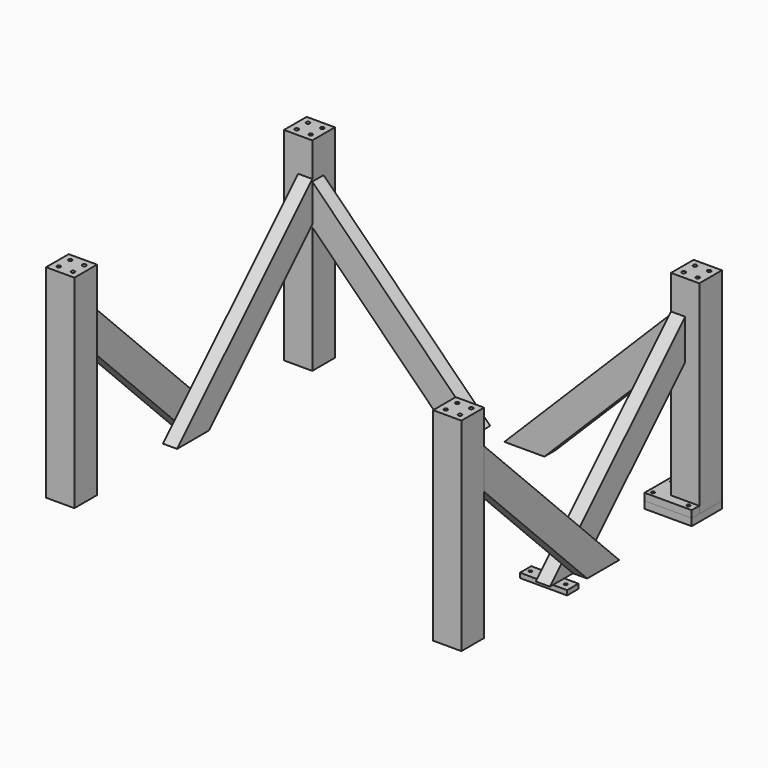
from build123d import *

# Parameters (mm, degrees)
F2_W      = 100
F2_H      = 80
F2_R      = 3.5
F2_R_2    = 4.5
F3_DEPTH  = 15
F4_R      = 7
F5_DEPTH  = 9
F11_DEPTH = 15
F12_W     = 100
F12_H     = 30
F12_R     = 3.25
F12_R_2   = 2.5
F13_DEPTH = 10
F16_DEPTH = 15
F19_DEPTH = 15
F1_W      = 60
F1_H      = 60
F1_R      = 4
F24_DEPTH = 430


with BuildPart() as f3:
    # F2 (on Top) → F3 (new body)
    with BuildSketch(Plane.XY):
        with Locations((40, 55)):
            Rectangle(F2_W, F2_H)
        with Locations((0, 25)):
            Circle(F2_R, mode=Mode.SUBTRACT)
        with Locations((75, 25)):
            Circle(F2_R, mode=Mode.SUBTRACT)
        with Locations((45, 50)):
            Circle(F2_R_2, mode=Mode.SUBTRACT)
        with Locations((75, 50)):
            Circle(F2_R_2, mode=Mode.SUBTRACT)
        with Locations((0, 75)):
            Circle(F2_R, mode=Mode.SUBTRACT)
        with Locations((45, 80)):
            Circle(F2_R_2, mode=Mode.SUBTRACT)
        with Locations((75, 80)):
            Circle(F2_R_2, mode=Mode.SUBTRACT)
    extrude(amount=F3_DEPTH)

    # F4 (on face) → F5 (cut)
    with BuildSketch(Plane(origin=(0, 0, 0), x_dir=(1, 0, 0), z_dir=(0, 0, -1))):
        with Locations((45, -50)):
            Circle(F4_R)
        with Locations((75, -50)):
            Circle(F4_R)
        with Locations((75, -80)):
            Circle(F4_R)
        with Locations((45, -80)):
            Circle(F4_R)
    extrude(amount=-F5_DEPTH, mode=Mode.SUBTRACT)


with BuildPart() as f6_1:
    # F6: copy of F3
    add(f3.part.moved(Location((0, 0, 15))))


with BuildPart() as f8_1:
    # F8: instance of F3
    add(f3.part.mirror(Plane.XY))


with BuildPart() as f11:
    # F10 (on plane+point) → F11 (new body, symmetric)
    with BuildSketch(Plane.YZ.offset(45)):
        Polygon((-238.1471862576, 0), (35, 273.1471862576), (35, 358), (-323, 0), align=None)
    extrude(amount=F11_DEPTH, both=True)


with BuildPart() as f13:
    # F12 (on face) → F13 (new body)
    with BuildSketch(Plane(origin=(0, 0, 0), x_dir=(1, 0, 0), z_dir=(0, 0, -1))):
        with Locations((40, 300)):
            Rectangle(F12_W, F12_H)
        with Locations((0, 300)):
            Circle(F12_R, mode=Mode.SUBTRACT)
        with Locations((45, 300.23)):
            Circle(F12_R_2, mode=Mode.SUBTRACT)
        with Locations((75, 300)):
            Circle(F12_R, mode=Mode.SUBTRACT)
    extrude(amount=F13_DEPTH)


with BuildPart() as f16:
    # F15 (on plane+point) → F16 (new body, symmetric)
    with BuildSketch(Plane.YZ.offset(75)):
        Polygon((-177, 0), (-535, 358), (-535, 273.1471862576), (-261.8528137424, 0), align=None)
    extrude(amount=F16_DEPTH, both=True)


with BuildPart() as f19:
    # F18 (on plane+point) → F19 (new body, symmetric)
    with BuildSketch(Plane.XZ.offset(-50)):
        Polygon((30, 268.1471862576), (30, 353), (-323, 0), (-238.1471862576, 0), align=None)
    extrude(amount=F19_DEPTH, both=True)


with BuildPart() as f21_1:
    # F21: instance of F19
    add(f19.part.mirror(Plane(origin=(-350, 50, 0), x_dir=(0, 1, 0), z_dir=(-1, 0, 0))))


with BuildPart() as f22_1:
    # F22: instance of F16
    add(f16.part.mirror(Plane(origin=(-350, 50, 0), x_dir=(0, 1, 0), z_dir=(-1, 0, 0))))


with BuildPart() as f23_1:
    # F23: instance of F11
    add(f11.part.mirror(Plane(origin=(-350, 50, 0), x_dir=(0, 1, 0), z_dir=(-1, 0, 0))))


with BuildPart() as f24:
    # F1 (on Top) → F24 (new body)
    with BuildSketch(Plane.XY):
        with Locations((60, 65)):
            Rectangle(F1_W, F1_H)
        with Locations((45, 50)):
            Circle(F1_R, mode=Mode.SUBTRACT)
        with Locations((75, 50)):
            Circle(F1_R, mode=Mode.SUBTRACT)
        with Locations((45, 80)):
            Circle(F1_R, mode=Mode.SUBTRACT)
        with Locations((75, 80)):
            Circle(F1_R, mode=Mode.SUBTRACT)
    extrude(amount=F24_DEPTH)


with BuildPart() as f27_1:
    # F27: instance of F24
    add(f24.part.mirror(Plane(origin=(75, -250, 430), x_dir=(0, 0, -1), z_dir=(0, 1, 0))))


with BuildPart() as f28_1:
    # F28: instance of F24
    add(f24.part.mirror(Plane(origin=(-350, 50, 0), x_dir=(0, 1, 0), z_dir=(-1, 0, 0))))


with BuildPart() as f29_1:
    # F29: instance of F28_1
    add(f28_1.part.mirror(Plane(origin=(75, -250, 430), x_dir=(0, 0, -1), z_dir=(0, 1, 0))))


solid = Compound([f3.part, f8_1.part, f11.part, f13.part, f16.part, f19.part, f21_1.part, f22_1.part, f23_1.part, f24.part, f27_1.part, f28_1.part, f29_1.part])
